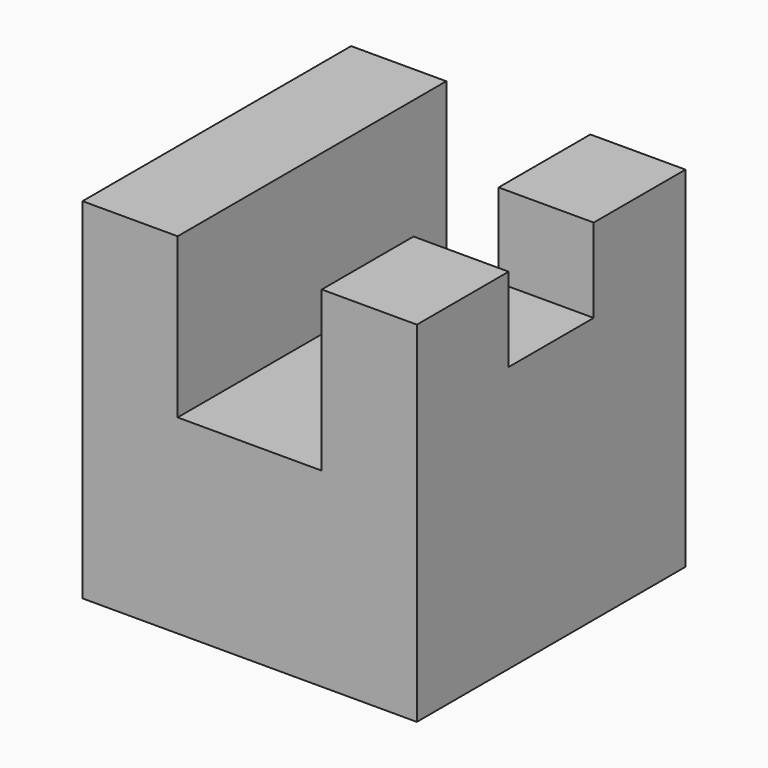
from build123d import *

# Parameters (mm, degrees)
F1_DEPTH      = 25.4
F1_DEPTH_BACK = 25.4
F2_W          = 14.392608
F2_H          = 16.084262
F3_DEPTH      = 12.7


with BuildPart() as f1:
    # F0 (on Front) → F1 (new body, two sides)
    with BuildSketch(Plane.XZ) as f1_sk:
        Polygon((-10.900833, 26.457157), (-25.293441, 26.457157), (-25.293441, -26.457157), (25.293441, -26.457157), (25.293441, 26.457157), (10.900833, 26.457157), (10.900833, 2.327185), (-10.900833, 2.327185), align=None)
    extrude(amount=F1_DEPTH)
    extrude(f1_sk.sketch, amount=-F1_DEPTH_BACK)

    # F2 (on face) → F3 (cut)
    with BuildSketch(Plane.XY.offset(26.457157)):
        with Locations((18.097137, 0)):
            Rectangle(F2_W, F2_H)
    extrude(amount=-F3_DEPTH, mode=Mode.SUBTRACT)


solid = f1.part
